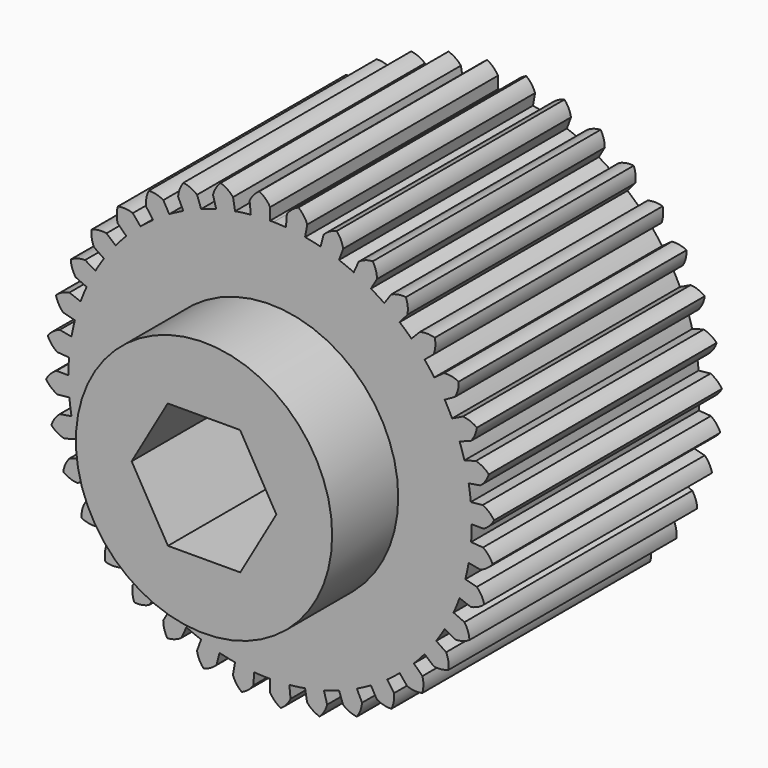
from build123d import *

# Parameters (mm, degrees)
F1_DEPTH = 25.4
F2_R     = 11.43
F3_DEPTH = 7.366
F5_DEPTH = 254


with BuildPart() as f1:
    # F0 (on Front) → F1 (new body)
    with BuildSketch(Plane.XZ):
        with BuildLine():
            Line((0, 17.9832), (0.005018, 19.049999))
            ThreePointArc((0.005018, 19.049999), (0.002509, 19.05), (0, 19.05))
            Line((0, 19.05), (0, 19.058717))
            ThreePointArc((0, 19.058717), (-0.413275, 19.585527), (-0.956669, 19.97674))
            ThreePointArc((-0.956669, 19.97674), (-1.463467, 19.531574), (-1.825396, 18.962342))
            Line((-1.825396, 18.962342), (-1.718458, 17.900905))
            ThreePointArc((-1.718458, 17.900905), (-2.422486, 17.819289), (-3.12275, 17.709995))
            Line((-3.12275, 17.709995), (-3.303056, 18.761458))
            ThreePointArc((-3.303056, 18.761458), (-3.803812, 19.21341), (-4.411059, 19.507124))
            ThreePointArc((-4.411059, 19.507124), (-4.832856, 18.980717), (-5.09044, 18.357285))
            Line((-5.09044, 18.357285), (-4.800811, 17.330542))
            ThreePointArc((-4.800811, 17.330542), (-5.47997, 17.127913), (-6.150617, 16.89868))
            Line((-6.150617, 16.89868), (-6.510768, 17.90286))
            ThreePointArc((-6.510768, 17.90286), (-7.082397, 18.260991), (-7.731422, 18.444795))
            ThreePointArc((-7.731422, 18.444795), (-8.055401, 17.853141), (-8.200814, 17.194451))
            Line((-8.200814, 17.194451), (-7.737293, 16.233601))
            ThreePointArc((-7.737293, 16.233601), (-8.370947, 15.916115), (-8.9916, 15.573908))
            Line((-8.9916, 15.573908), (-9.520654, 16.500292))
            ThreePointArc((-9.520654, 16.500292), (-10.145787, 16.75372), (-10.816869, 16.82203))
            ThreePointArc((-10.816869, 16.82203), (-11.033187, 16.183106), (-11.06201, 15.509172))
            Line((-11.06201, 15.509172), (-10.438681, 14.643409))
            ThreePointArc((-10.438681, 14.643409), (-11.007578, 14.220714), (-11.559378, 13.77593))
            Line((-11.559378, 13.77593), (-12.24126, 14.596372))
            ThreePointArc((-12.24126, 14.596372), (-12.900903, 14.737396), (-13.573651, 14.688136))
            ThreePointArc((-13.573651, 14.688136), (-13.675735, 14.021355), (-13.587093, 13.352655))
            Line((-13.587093, 13.352655), (-12.822895, 12.608285))
            ThreePointArc((-12.822895, 12.608285), (-13.309749, 12.093223), (-13.77593, 11.559378))
            Line((-13.77593, 11.559378), (-14.589921, 12.248948))
            ThreePointArc((-14.589921, 12.248948), (-15.264031, 12.273283), (-15.918005, 12.10795))
            ThreePointArc((-15.918005, 12.10795), (-15.902752, 11.433573), (-15.699339, 10.790424))
            Line((-15.699339, 10.790424), (-14.817492, 10.190064))
            ThreePointArc((-14.817492, 10.190064), (-15.207511, 9.598286), (-15.573908, 8.9916))
            Line((-15.573908, 8.9916), (-16.495274, 9.529345))
            ThreePointArc((-16.495274, 9.529345), (-17.163369, 9.436253), (-17.778698, 9.15987))
            ThreePointArc((-17.778698, 9.15987), (-17.646573, 8.498387), (-17.334568, 7.900332))
            Line((-17.334568, 7.900332), (-16.361867, 7.462224))
            ThreePointArc((-16.361867, 7.462224), (-16.643199, 6.81171), (-16.89868, 6.150617))
            Line((-16.89868, 6.150617), (-17.899428, 6.520199))
            ThreePointArc((-17.899428, 6.520199), (-18.541207, 6.312508), (-19.099195, 5.933473))
            ThreePointArc((-19.099195, 5.933473), (-18.854211, 5.304983), (-18.443095, 4.770192))
            Line((-18.443095, 4.770192), (-17.409095, 4.507647))
            ThreePointArc((-17.409095, 4.507647), (-17.573193, 3.818164), (-17.709995, 3.12275))
            Line((-17.709995, 3.12275), (-18.759716, 3.312939))
            ThreePointArc((-18.759716, 3.312939), (-19.35568, 2.996959), (-19.839372, 2.52679))
            ThreePointArc((-19.839372, 2.52679), (-19.488974, 1.950388), (-18.991238, 1.495112))
            Line((-18.991238, 1.495112), (-17.927357, 1.416108))
            ThreePointArc((-17.927357, 1.416108), (-17.969234, 0.708604), (-17.9832, 0))
            Line((-17.9832, 0), (-19.049999, 0.005018))
            ThreePointArc((-19.049999, 0.005018), (-19.58204, -0.40965), (-19.97674, -0.956669))
            ThreePointArc((-19.97674, -0.956669), (-19.531574, -1.463467), (-18.962342, -1.825396))
            Line((-18.962342, -1.825396), (-17.900905, -1.718458))
            ThreePointArc((-17.900905, -1.718458), (-17.819289, -2.422486), (-17.709995, -3.12275))
            Line((-17.709995, -3.12275), (-18.761458, -3.303056))
            ThreePointArc((-18.761458, -3.303056), (-19.21341, -3.803812), (-19.507124, -4.411059))
            ThreePointArc((-19.507124, -4.411059), (-18.980717, -4.832856), (-18.357285, -5.09044))
            Line((-18.357285, -5.09044), (-17.330542, -4.800811))
            ThreePointArc((-17.330542, -4.800811), (-17.127913, -5.47997), (-16.89868, -6.150617))
            Line((-16.89868, -6.150617), (-17.90286, -6.510768))
            ThreePointArc((-17.90286, -6.510768), (-18.260991, -7.082397), (-18.444795, -7.731422))
            ThreePointArc((-18.444795, -7.731422), (-17.853141, -8.055401), (-17.194451, -8.200814))
            Line((-17.194451, -8.200814), (-16.233601, -7.737293))
            ThreePointArc((-16.233601, -7.737293), (-15.916115, -8.370947), (-15.573908, -8.9916))
            Line((-15.573908, -8.9916), (-16.500292, -9.520654))
            ThreePointArc((-16.500292, -9.520654), (-16.75372, -10.145787), (-16.82203, -10.816869))
            ThreePointArc((-16.82203, -10.816869), (-16.183106, -11.033187), (-15.509172, -11.06201))
            Line((-15.509172, -11.06201), (-14.643409, -10.438681))
            ThreePointArc((-14.643409, -10.438681), (-14.220714, -11.007578), (-13.77593, -11.559378))
            Line((-13.77593, -11.559378), (-14.596372, -12.24126))
            ThreePointArc((-14.596372, -12.24126), (-14.737396, -12.900903), (-14.688136, -13.573651))
            ThreePointArc((-14.688136, -13.573651), (-14.021355, -13.675735), (-13.352655, -13.587093))
            Line((-13.352655, -13.587093), (-12.608285, -12.822895))
            ThreePointArc((-12.608285, -12.822895), (-12.093223, -13.309749), (-11.559378, -13.77593))
            Line((-11.559378, -13.77593), (-12.248948, -14.589921))
            ThreePointArc((-12.248948, -14.589921), (-12.273283, -15.264031), (-12.10795, -15.918005))
            ThreePointArc((-12.10795, -15.918005), (-11.433573, -15.902752), (-10.790424, -15.699339))
            Line((-10.790424, -15.699339), (-10.190064, -14.817492))
            ThreePointArc((-10.190064, -14.817492), (-9.598286, -15.207511), (-8.9916, -15.573908))
            Line((-8.9916, -15.573908), (-9.529345, -16.495274))
            ThreePointArc((-9.529345, -16.495274), (-9.436253, -17.163369), (-9.15987, -17.778698))
            ThreePointArc((-9.15987, -17.778698), (-8.498387, -17.646573), (-7.900332, -17.334568))
            Line((-7.900332, -17.334568), (-7.462224, -16.361867))
            ThreePointArc((-7.462224, -16.361867), (-6.81171, -16.643199), (-6.150617, -16.89868))
            Line((-6.150617, -16.89868), (-6.520199, -17.899428))
            ThreePointArc((-6.520199, -17.899428), (-6.312508, -18.541207), (-5.933473, -19.099195))
            ThreePointArc((-5.933473, -19.099195), (-5.304983, -18.854211), (-4.770192, -18.443095))
            Line((-4.770192, -18.443095), (-4.507647, -17.409095))
            ThreePointArc((-4.507647, -17.409095), (-3.818164, -17.573193), (-3.12275, -17.709995))
            Line((-3.12275, -17.709995), (-3.312939, -18.759716))
            ThreePointArc((-3.312939, -18.759716), (-2.996959, -19.35568), (-2.52679, -19.839372))
            ThreePointArc((-2.52679, -19.839372), (-1.950388, -19.488974), (-1.495112, -18.991238))
            Line((-1.495112, -18.991238), (-1.416108, -17.927357))
            ThreePointArc((-1.416108, -17.927357), (-0.708604, -17.969234), (0, -17.9832))
            Line((0, -17.9832), (-0.005018, -19.049999))
            ThreePointArc((-0.005018, -19.049999), (0.40965, -19.58204), (0.956669, -19.97674))
            ThreePointArc((0.956669, -19.97674), (1.463467, -19.531574), (1.825396, -18.962342))
            Line((1.825396, -18.962342), (1.718458, -17.900905))
            ThreePointArc((1.718458, -17.900905), (2.422486, -17.819289), (3.12275, -17.709995))
            Line((3.12275, -17.709995), (3.303056, -18.761458))
            ThreePointArc((3.303056, -18.761458), (3.803812, -19.21341), (4.411059, -19.507124))
            ThreePointArc((4.411059, -19.507124), (4.832856, -18.980717), (5.09044, -18.357285))
            Line((5.09044, -18.357285), (4.800811, -17.330542))
            ThreePointArc((4.800811, -17.330542), (5.47997, -17.127913), (6.150617, -16.89868))
            Line((6.150617, -16.89868), (6.510768, -17.90286))
            ThreePointArc((6.510768, -17.90286), (7.082397, -18.260991), (7.731422, -18.444795))
            ThreePointArc((7.731422, -18.444795), (8.055401, -17.853141), (8.200814, -17.194451))
            Line((8.200814, -17.194451), (7.737293, -16.233601))
            ThreePointArc((7.737293, -16.233601), (8.370947, -15.916115), (8.9916, -15.573908))
            Line((8.9916, -15.573908), (9.520654, -16.500292))
            ThreePointArc((9.520654, -16.500292), (10.145787, -16.75372), (10.816869, -16.82203))
            ThreePointArc((10.816869, -16.82203), (11.033187, -16.183106), (11.06201, -15.509172))
            Line((11.06201, -15.509172), (10.438681, -14.643409))
            ThreePointArc((10.438681, -14.643409), (11.007578, -14.220714), (11.559378, -13.77593))
            Line((11.559378, -13.77593), (12.24126, -14.596372))
            ThreePointArc((12.24126, -14.596372), (12.900903, -14.737396), (13.573651, -14.688136))
            ThreePointArc((13.573651, -14.688136), (13.675735, -14.021355), (13.587093, -13.352655))
            Line((13.587093, -13.352655), (12.822895, -12.608285))
            ThreePointArc((12.822895, -12.608285), (13.309749, -12.093223), (13.77593, -11.559378))
            Line((13.77593, -11.559378), (14.589921, -12.248948))
            ThreePointArc((14.589921, -12.248948), (15.264031, -12.273283), (15.918005, -12.10795))
            ThreePointArc((15.918005, -12.10795), (15.902752, -11.433573), (15.699339, -10.790424))
            Line((15.699339, -10.790424), (14.817492, -10.190064))
            ThreePointArc((14.817492, -10.190064), (15.207511, -9.598286), (15.573908, -8.9916))
            Line((15.573908, -8.9916), (16.495274, -9.529345))
            ThreePointArc((16.495274, -9.529345), (17.163369, -9.436253), (17.778698, -9.15987))
            ThreePointArc((17.778698, -9.15987), (17.646573, -8.498387), (17.334568, -7.900332))
            Line((17.334568, -7.900332), (16.361867, -7.462224))
            ThreePointArc((16.361867, -7.462224), (16.643199, -6.81171), (16.89868, -6.150617))
            Line((16.89868, -6.150617), (17.899428, -6.520199))
            ThreePointArc((17.899428, -6.520199), (18.541207, -6.312508), (19.099195, -5.933473))
            ThreePointArc((19.099195, -5.933473), (18.854211, -5.304983), (18.443095, -4.770192))
            Line((18.443095, -4.770192), (17.409095, -4.507647))
            ThreePointArc((17.409095, -4.507647), (17.573193, -3.818164), (17.709995, -3.12275))
            Line((17.709995, -3.12275), (18.759716, -3.312939))
            ThreePointArc((18.759716, -3.312939), (19.35568, -2.996959), (19.839372, -2.52679))
            ThreePointArc((19.839372, -2.52679), (19.488974, -1.950388), (18.991238, -1.495112))
            Line((18.991238, -1.495112), (17.927357, -1.416108))
            ThreePointArc((17.927357, -1.416108), (17.969234, -0.708604), (17.9832, 0))
            Line((17.9832, 0), (19.049999, -0.005018))
            ThreePointArc((19.049999, -0.005018), (19.58204, 0.40965), (19.97674, 0.956669))
            ThreePointArc((19.97674, 0.956669), (19.531574, 1.463467), (18.962342, 1.825396))
            Line((18.962342, 1.825396), (17.900905, 1.718458))
            ThreePointArc((17.900905, 1.718458), (17.819289, 2.422486), (17.709995, 3.12275))
            Line((17.709995, 3.12275), (18.761458, 3.303056))
            ThreePointArc((18.761458, 3.303056), (19.21341, 3.803812), (19.507124, 4.411059))
            ThreePointArc((19.507124, 4.411059), (18.980717, 4.832856), (18.357285, 5.09044))
            Line((18.357285, 5.09044), (17.330542, 4.800811))
            ThreePointArc((17.330542, 4.800811), (17.127913, 5.47997), (16.89868, 6.150617))
            Line((16.89868, 6.150617), (17.90286, 6.510768))
            ThreePointArc((17.90286, 6.510768), (18.260991, 7.082397), (18.444795, 7.731422))
            ThreePointArc((18.444795, 7.731422), (17.853141, 8.055401), (17.194451, 8.200814))
            Line((17.194451, 8.200814), (16.233601, 7.737293))
            ThreePointArc((16.233601, 7.737293), (15.916115, 8.370947), (15.573908, 8.9916))
            Line((15.573908, 8.9916), (16.500292, 9.520654))
            ThreePointArc((16.500292, 9.520654), (16.75372, 10.145787), (16.82203, 10.816869))
            ThreePointArc((16.82203, 10.816869), (16.183106, 11.033187), (15.509172, 11.06201))
            Line((15.509172, 11.06201), (14.643409, 10.438681))
            ThreePointArc((14.643409, 10.438681), (14.220714, 11.007578), (13.77593, 11.559378))
            Line((13.77593, 11.559378), (14.596372, 12.24126))
            ThreePointArc((14.596372, 12.24126), (14.737396, 12.900903), (14.688136, 13.573651))
            ThreePointArc((14.688136, 13.573651), (14.021355, 13.675735), (13.352655, 13.587093))
            Line((13.352655, 13.587093), (12.608285, 12.822895))
            ThreePointArc((12.608285, 12.822895), (12.093223, 13.309749), (11.559378, 13.77593))
            Line((11.559378, 13.77593), (12.248948, 14.589921))
            ThreePointArc((12.248948, 14.589921), (12.273283, 15.264031), (12.10795, 15.918005))
            ThreePointArc((12.10795, 15.918005), (11.433573, 15.902752), (10.790424, 15.699339))
            Line((10.790424, 15.699339), (10.190064, 14.817492))
            ThreePointArc((10.190064, 14.817492), (9.598286, 15.207511), (8.9916, 15.573908))
            Line((8.9916, 15.573908), (9.529345, 16.495274))
            ThreePointArc((9.529345, 16.495274), (9.436253, 17.163369), (9.15987, 17.778698))
            ThreePointArc((9.15987, 17.778698), (8.498387, 17.646573), (7.900332, 17.334568))
            Line((7.900332, 17.334568), (7.462224, 16.361867))
            ThreePointArc((7.462224, 16.361867), (6.81171, 16.643199), (6.150617, 16.89868))
            Line((6.150617, 16.89868), (6.520199, 17.899428))
            ThreePointArc((6.520199, 17.899428), (6.312508, 18.541207), (5.933473, 19.099195))
            ThreePointArc((5.933473, 19.099195), (5.304983, 18.854211), (4.770192, 18.443095))
            Line((4.770192, 18.443095), (4.507647, 17.409095))
            ThreePointArc((4.507647, 17.409095), (3.818164, 17.573193), (3.12275, 17.709995))
            Line((3.12275, 17.709995), (3.312939, 18.759716))
            ThreePointArc((3.312939, 18.759716), (2.996959, 19.35568), (2.52679, 19.839372))
            ThreePointArc((2.52679, 19.839372), (1.950388, 19.488974), (1.495112, 18.991238))
            Line((1.495112, 18.991238), (1.416108, 17.927357))
            ThreePointArc((1.416108, 17.927357), (0.867334, 17.962272), (0.317748, 17.980393))
            ThreePointArc((0.317748, 17.980393), (0.15888, 17.982498), (0, 17.9832))
        make_face()
        with BuildLine():
            ThreePointArc((0, 19.05), (0.002509, 19.05), (0.005018, 19.049999))
            ThreePointArc((0.005018, 19.049999), (0.002514, 19.054361), (0, 19.058717))
            Line((0, 19.058717), (0, 19.05))
        make_face()
    extrude(amount=F1_DEPTH)

    # F2 (on face) → F3 (join)
    with BuildSketch(Plane.XZ.offset(25.4)):
        Circle(F2_R)
    extrude(amount=F3_DEPTH)

    # F4 (on face) → F5 (cut)
    with BuildSketch(Plane.XZ.offset(32.766)):
        Polygon((3.216303, 5.593721), (-3.236153, 5.582261), (-6.452456, -0.01146), (-3.216303, -5.593721), (3.236153, -5.582261), (6.452456, 0.01146), align=None)
    extrude(amount=-F5_DEPTH, mode=Mode.SUBTRACT)


solid = f1.part
